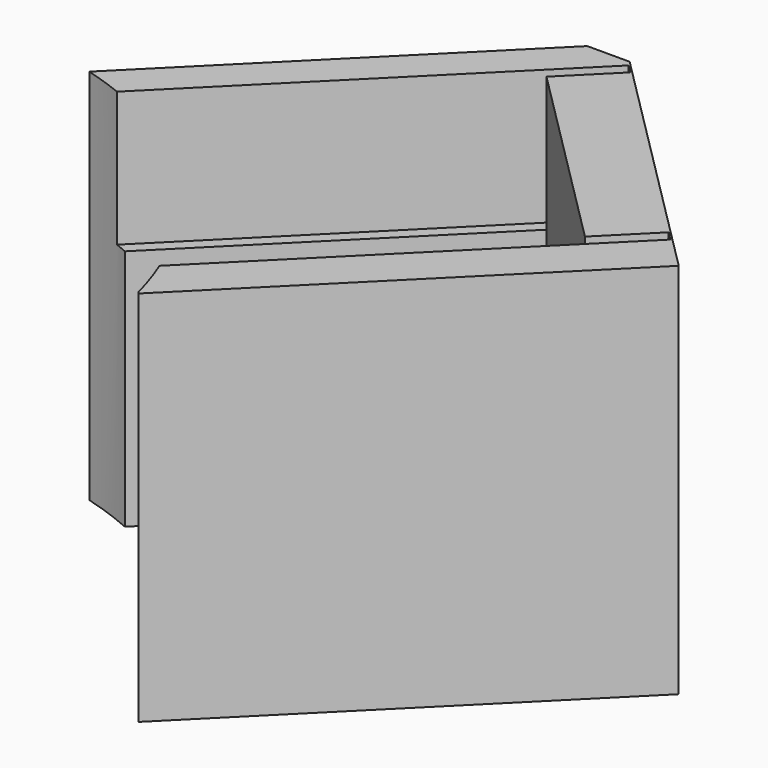
from build123d import *

# Parameters (mm, degrees)
BOX037_W               = 100
BOX037_H               = 2
BOX037_DEPTH           = 60
CYLINDER090_R          = 28
CYLINDER090_DEPTH      = 28
BOX035_W               = 40
BOX035_H               = 20.2
BOX035_DEPTH           = 10
BOX035_PLACEMENT_ANGLE = 45
BOX036_W               = 34
BOX036_H               = 22
BOX036_DEPTH           = 10
BOX036_PLACEMENT_ANGLE = 45
BOX033_W               = 26.5
BOX033_H               = 20.2
BOX033_DEPTH           = 28
BOX033_PLACEMENT_ANGLE = 45
BOX034_W               = 31.5
BOX034_H               = 28
BOX034_DEPTH           = 28
BOX034_PLACEMENT_ANGLE = 45


with BuildPart() as face006:
    # Box037 → Box037 (new body)
    with BuildSketch(Plane(origin=(-33, 47.5, -59), x_dir=(1, 0, 0), z_dir=(0, 0, 1))):
        with Locations((50, 1)):
            Rectangle(BOX037_W, BOX037_H)
    extrude(amount=BOX037_DEPTH)


with BuildPart() as cylinder090:
    # Cylinder090 → Cylinder090 (new body)
    with BuildSketch(Plane.XY.offset(-28)):
        Circle(CYLINDER090_R)
    extrude(amount=CYLINDER090_DEPTH)


with BuildPart() as cube017:
    # Box035 → Box035 (new body)
    with BuildSketch(Plane.XY):
        with Locations((20, 10.1)):
            Rectangle(BOX035_W, BOX035_H)
    extrude(amount=BOX035_DEPTH)


with BuildPart() as cube017_1:
    # Box035 placement: moved
    add(cube017.part.moved(Location((20, 5.8, -10))).rotate(Axis((20, 5.8, -10), (0, 0, 1)), BOX035_PLACEMENT_ANGLE))


with BuildPart() as servo_secure002:
    # Box036 → Box036 (new body)
    with BuildSketch(Plane.XY):
        with Locations((17, 11)):
            Rectangle(BOX036_W, BOX036_H)
    extrude(amount=BOX036_DEPTH)


with BuildPart() as servo_secure002_1:
    # Box036 placement: moved
    add(servo_secure002.part.moved(Location((23, 7.5, -10))).rotate(Axis((23, 7.5, -10), (0, 0, 1)), BOX036_PLACEMENT_ANGLE))

    # Cut092: cut Cube017
    add(cube017_1.part, mode=Mode.SUBTRACT)


with BuildPart() as inner:
    # Box033 → Box033 (new body)
    with BuildSketch(Plane.XY):
        with Locations((13.25, 10.1)):
            Rectangle(BOX033_W, BOX033_H)
    extrude(amount=BOX033_DEPTH)


with BuildPart() as inner_1:
    # Box033 placement: moved
    add(inner.part.moved(Location((24.2, 10, -28))).rotate(Axis((24.2, 10, -28), (0, 0, 1)), BOX033_PLACEMENT_ANGLE))


with BuildPart() as cut095:
    # Box034 → Box034 (new body)
    with BuildSketch(Plane.XY):
        with Locations((15.75, 14)):
            Rectangle(BOX034_W, BOX034_H)
    extrude(amount=BOX034_DEPTH)


with BuildPart() as cut095_1:
    # Box034 placement: moved
    add(cut095.part.moved(Location((27.2, 7, -28))).rotate(Axis((27.2, 7, -28), (0, 0, 1)), BOX034_PLACEMENT_ANGLE))

    # Cut091: cut inner
    add(inner_1.part, mode=Mode.SUBTRACT)

    # Cut093: cut servo-secure002
    add(servo_secure002_1.part, mode=Mode.SUBTRACT)

    # Cut094: cut Cylinder090
    add(cylinder090.part, mode=Mode.SUBTRACT)

    # Cut095: cut face006
    add(face006.part, mode=Mode.SUBTRACT)


solid = cut095_1.part
